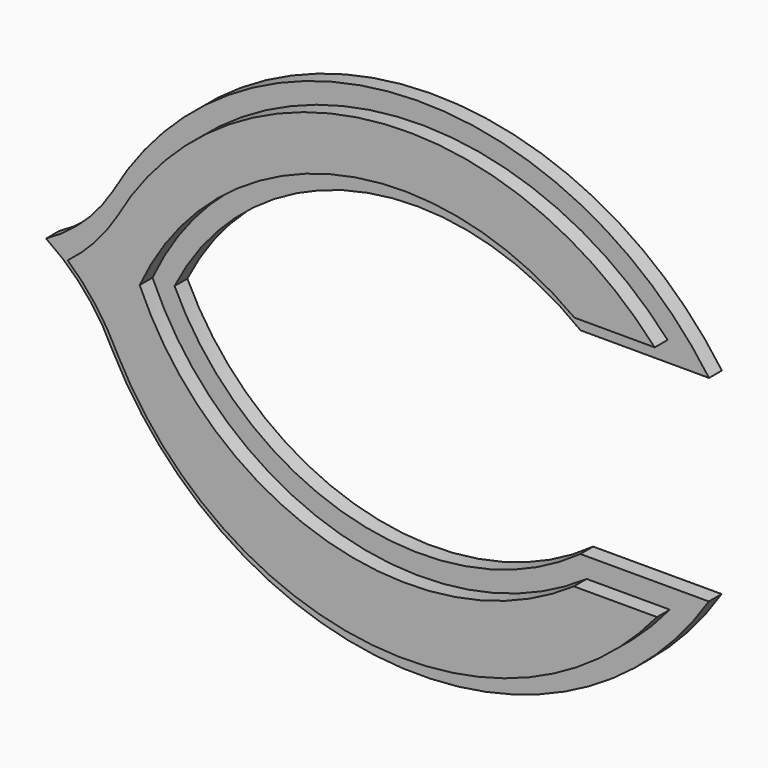
from build123d import *

# Parameters (mm, degrees)
F1_DEPTH = 2.54
F3_DEPTH = 2.54


with BuildPart() as f1:
    # F0 (on Front) → F1 (new body)
    with BuildSketch(Plane.XZ):
        with BuildLine():
            ThreePointArc((-89.847345, 14.841913), (-94.439239, 9.188051), (-100.340411, 4.918648))
            Line((-100.340411, 4.918648), (-94.748697, 4.915454))
            ThreePointArc((-94.748697, 4.915454), (-90.597251, 8.757316), (-87.215808, 13.291656))
            ThreePointArc((-87.215808, 13.291656), (-46.919736, 39.862572), (-1.818631, 22.667304))
            Line((-1.818631, 22.667304), (-14.765388, 22.681681))
            ThreePointArc((-14.765388, 22.681681), (-53.29409, 30.109521), (-83.398286, 4.942655))
            ThreePointArc((-83.398286, 4.942655), (-83.390957, 4.925808), (-83.383622, 4.908964))
            Line((-83.383622, 4.908964), (-80.02895, 4.907048))
            ThreePointArc((-80.02895, 4.907048), (-51.38346, 27.432397), (-15.787626, 19.629064))
            Line((-15.787626, 19.629064), (4.532362, 19.606501))
            ThreePointArc((4.532362, 19.606501), (-43.966873, 43.161189), (-89.847345, 14.841913))
        make_face()
        with BuildLine():
            ThreePointArc((-87.215808, 13.291656), (-90.597251, 8.757316), (-94.748697, 4.915454))
            Line((-94.748697, 4.915454), (-83.383622, 4.908964))
            ThreePointArc((-83.383622, 4.908964), (-83.390957, 4.925808), (-83.398286, 4.942655))
            ThreePointArc((-83.398286, 4.942655), (-53.29409, 30.109521), (-14.765388, 22.681681))
            Line((-14.765388, 22.681681), (-1.818631, 22.667304))
            ThreePointArc((-1.818631, 22.667304), (-46.919736, 39.862572), (-87.215808, 13.291656))
        make_face()
        with BuildLine():
            Line((-83.383622, 4.908964), (-94.748697, 4.915454))
            ThreePointArc((-94.748697, 4.915454), (-94.892409, 4.805729), (-95.03676, 4.696847))
            ThreePointArc((-95.03676, 4.696847), (-90.533513, -0.176453), (-87.109419, -5.860101))
            ThreePointArc((-87.109419, -5.860101), (-46.648241, -33.321883), (-1.481932, -14.579927))
            Line((-1.481932, -14.579927), (-14.857525, -14.579927))
            ThreePointArc((-14.857525, -14.579927), (-53.724772, -21.024591), (-83.383622, 4.908964))
        make_face()
        with BuildLine():
            Line((-94.748697, 4.915454), (-100.340411, 4.918648))
            ThreePointArc((-100.340411, 4.918648), (-94.255473, -0.422598), (-89.847296, -7.214016))
            ThreePointArc((-89.847296, -7.214016), (-43.922447, -36.583656), (4.490261, -11.526177))
            Line((4.490261, -11.526177), (-15.829739, -11.526177))
            ThreePointArc((-15.829739, -11.526177), (-51.788189, -18.3848), (-80.02895, 4.907048))
            Line((-80.02895, 4.907048), (-83.383622, 4.908964))
            ThreePointArc((-83.383622, 4.908964), (-53.724772, -21.024591), (-14.857525, -14.579927))
            Line((-14.857525, -14.579927), (-1.481932, -14.579927))
            ThreePointArc((-1.481932, -14.579927), (-46.648241, -33.321883), (-87.109419, -5.860101))
            ThreePointArc((-87.109419, -5.860101), (-90.533513, -0.176453), (-95.03676, 4.696847))
            ThreePointArc((-95.03676, 4.696847), (-94.892409, 4.805729), (-94.748697, 4.915454))
        make_face()
    extrude(amount=F1_DEPTH)

    # F2 (on face) → F3 (join)
    with BuildSketch(Plane.XZ.offset(2.54)):
        with BuildLine():
            Line((-14.734051, 22.777105), (-2.033815, 22.763003))
            ThreePointArc((-2.033815, 22.763003), (-47.017038, 39.755745), (-87.133512, 13.243255))
            ThreePointArc((-87.133512, 13.243255), (-90.608045, 8.602915), (-94.885993, 4.690846))
            ThreePointArc((-94.885993, 4.690846), (-90.42265, -0.165199), (-87.023867, -5.817711))
            ThreePointArc((-87.023867, -5.817711), (-46.737592, -33.216733), (-1.683082, -14.675386))
            Line((-1.683082, -14.675386), (-14.827714, -14.675386))
            ThreePointArc((-14.827714, -14.675386), (-53.803468, -21.101421), (-83.502833, 4.943753))
            ThreePointArc((-83.502833, 4.943753), (-53.353775, 30.192676), (-14.734051, 22.777105))
        make_face()
    extrude(amount=F3_DEPTH)


solid = f1.part
